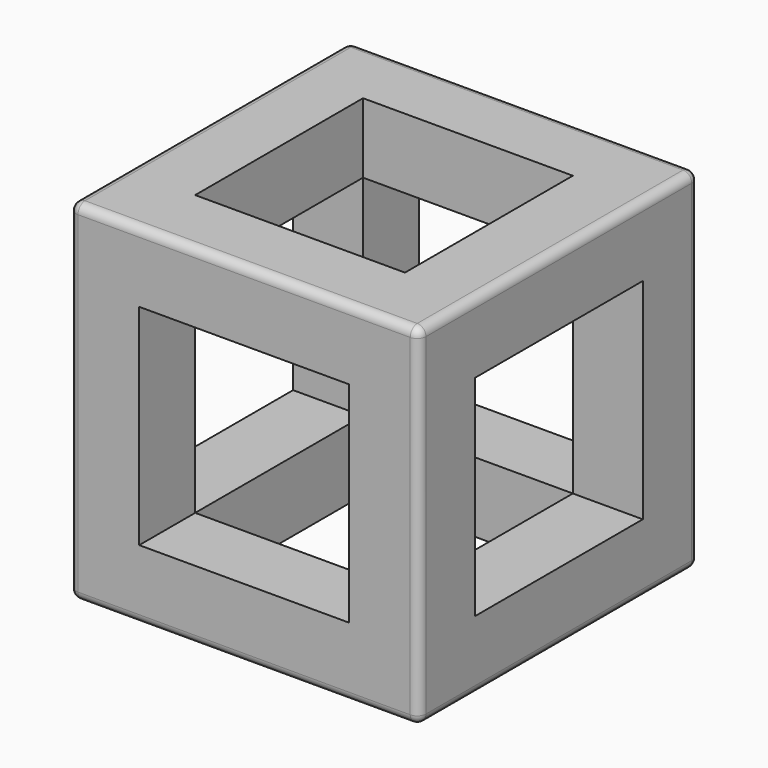
from build123d import *

# Parameters (mm, degrees)
F0_W     = 20
F0_H     = 20
F1_DEPTH = 20
F2_W     = 12
F2_H     = 12
F3_DEPTH = 25
F4_W     = 12
F4_H     = 12
F5_DEPTH = 25
F6_W     = 12
F6_H     = 12
F7_DEPTH = 25
F8_R     = 0.5
F9_R     = 0.5
F10_R    = 0.5
F11_R    = 0.5
F12_R    = 0.5


with BuildPart() as f1:
    # F0 (on Top) → F1 (new body)
    with BuildSketch(Plane.XY):
        with Locations((1.090192, 0.044756)):
            Rectangle(F0_W, F0_H)
    extrude(amount=F1_DEPTH)

    # F2 (on face) → F3 (cut)
    with BuildSketch(Plane.XY.offset(20)):
        with Locations((1.090192, 0.044756)):
            Rectangle(F2_W, F2_H)
    extrude(amount=-F3_DEPTH, mode=Mode.SUBTRACT)

    # F4 (on face) → F5 (cut)
    with BuildSketch(Plane.YZ.offset(11.090192)):
        with Locations((0.044756, 10)):
            Rectangle(F4_W, F4_H)
        with Locations((0.044756, 10)):
            Rectangle(F4_W, F4_H)
    extrude(amount=-F5_DEPTH, mode=Mode.SUBTRACT)

    # F6 (on face) → F7 (cut)
    with BuildSketch(Plane.XZ.offset(9.955244)):
        with Locations((1.090192, 10)):
            Rectangle(F6_W, F6_H)
    extrude(amount=-F7_DEPTH, mode=Mode.SUBTRACT)

    # F8
    f8_edges = [f1.edges().sort_by_distance(p)[0] for p in [
        (1.090192, -9.955244, 20),
    ]]
    fillet(f8_edges, radius=F8_R)

    # F9
    f9_edges = [f1.edges().sort_by_distance(p)[0] for p in [
        (11.090192, 0.294756, 20),
    ]]
    fillet(f9_edges, radius=F9_R)

    # F10
    f10_edges = [f1.edges().sort_by_distance(p)[0] for p in [
        (-8.909808, -9.955244, 9.75),
    ]]
    fillet(f10_edges, radius=F10_R)

    # F11
    f11_edges = [f1.edges().sort_by_distance(p)[0] for p in [
        (1.090192, -9.955244, 0),
    ]]
    fillet(f11_edges, radius=F11_R)

    # F12
    f12_edges = [f1.edges().sort_by_distance(p)[0] for p in [
        (-8.909808, 10.044756, 10),
    ]]
    fillet(f12_edges, radius=F12_R)


solid = f1.part
